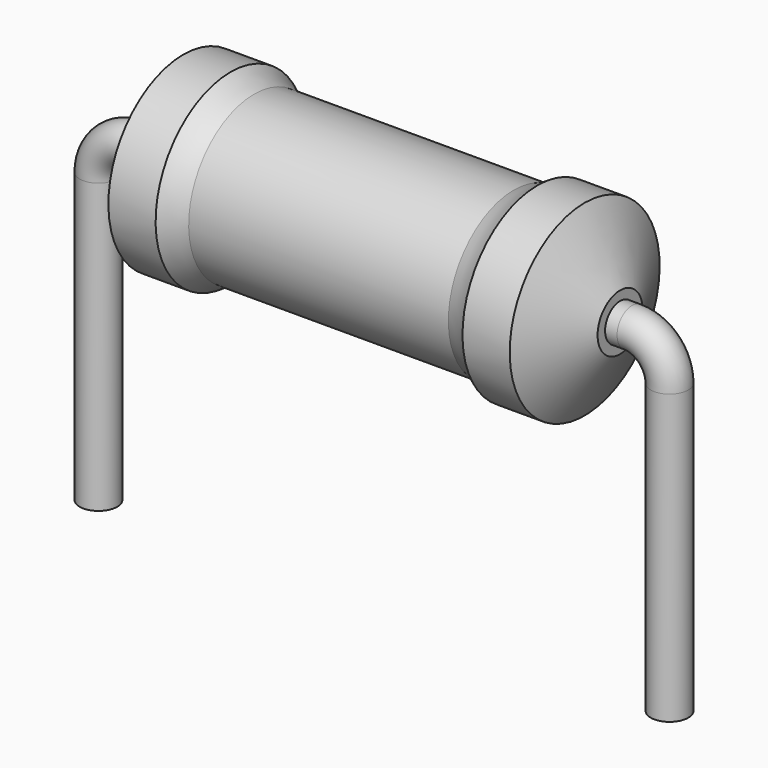
from build123d import *

# Parameters (mm, degrees)
SKETCH_R = 0.25


with BuildPart() as revolution:
    # Sketch002 → Revolution (revolve)
    with BuildSketch(Plane.XZ):
        with BuildLine():
            Line((1.1325, 2.6), (1.7625, 2.6))
            ThreePointArc((1.7625, 2.6), (1.913482, 2.508215), (2.0775, 2.4425))
            Line((2.0775, 2.4425), (5.5425, 2.4425))
            ThreePointArc((5.5425, 2.4425), (5.706518, 2.508215), (5.8575, 2.6))
            Line((5.8575, 2.6), (6.4875, 2.6))
            ThreePointArc((6.96, 1.725), (6.724607, 2.162963), (6.4875, 2.6))
            Line((6.96, 1.35), (6.96, 1.725))
            Line((0.66, 1.35), (6.96, 1.35))
            Line((0.66, 1.35), (0.66, 1.725))
            ThreePointArc((1.1325, 2.6), (0.895393, 2.162963), (0.66, 1.725))
        make_face()
    revolve(axis=Axis((0.66, 0, 1.35), (1, 0, 0)))


with BuildPart() as sweep_body:
    # Sweep: sweep along a path in Sketch001
    with BuildLine(Plane.XZ) as sweep_path:
        Line((0, -3), (0, 0.85))
        ThreePointArc((0, 0.85), (0.14645, 1.203557), (0.50001, 1.35))
        Line((0.50001, 1.35), (7.12, 1.35))
        ThreePointArc((7.12, 1.35), (7.473553, 1.203553), (7.62, 0.85))
        Line((7.62, 0.85), (7.62, -3))
    # Sketch → Sweep (sweep)
    with BuildSketch(Plane.XY.offset(-2)):
        Circle(SKETCH_R)
    sweep(path=sweep_path.line)


solid = Compound([revolution.part, sweep_body.part])
